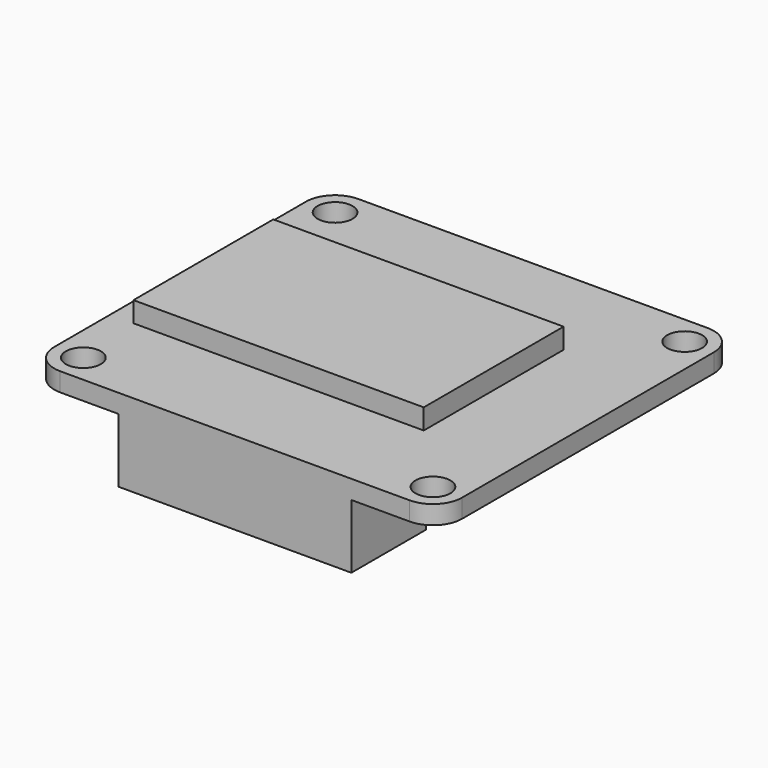
from build123d import *

# Parameters (mm, degrees)
SKETCH_R     = 1.5
PAD_DEPTH    = 1.6
SKETCH001_W  = 24.91
SKETCH001_H  = 15
PAD001_DEPTH = 1.75
SKETCH002_W  = 20
SKETCH002_H  = 8
PAD002_DEPTH = 5.5


with BuildPart() as part:
    # Sketch → Pad (new body)
    with BuildSketch(Plane.XY):
        with BuildLine():
            ThreePointArc((-15, 16), (-16.767767, 15.267767), (-17.5, 13.5))
            Line((-17.5, 13.5), (-17.5, -13.5))
            ThreePointArc((-17.5, -13.5), (-16.767767, -15.267767), (-15, -16))
            Line((-15, -16), (15, -16))
            ThreePointArc((15, -16), (16.767767, -15.267767), (17.5, -13.5))
            Line((17.5, 13.5), (17.5, -13.5))
            ThreePointArc((17.5, 13.5), (16.767767, 15.267767), (15, 16))
            Line((-15, 16), (15, 16))
        make_face()
        with Locations((-15, 13.5)):
            Circle(SKETCH_R, mode=Mode.SUBTRACT)
        with Locations((15, 13.5)):
            Circle(SKETCH_R, mode=Mode.SUBTRACT)
        with Locations((15, -13.5)):
            Circle(SKETCH_R, mode=Mode.SUBTRACT)
        with Locations((-15, -13.5)):
            Circle(SKETCH_R, mode=Mode.SUBTRACT)
    extrude(amount=PAD_DEPTH)

    # Sketch001 → Pad001 (join)
    with BuildSketch(Plane.XY.offset(1.6)):
        with Locations((-3.045, 0)):
            Rectangle(SKETCH001_W, SKETCH001_H)
    extrude(amount=PAD001_DEPTH)

    # Sketch002 → Pad002 (join)
    with BuildSketch(Plane.XY):
        with Locations((0, -12)):
            Rectangle(SKETCH002_W, SKETCH002_H)
    extrude(amount=-PAD002_DEPTH)


solid = part.part
